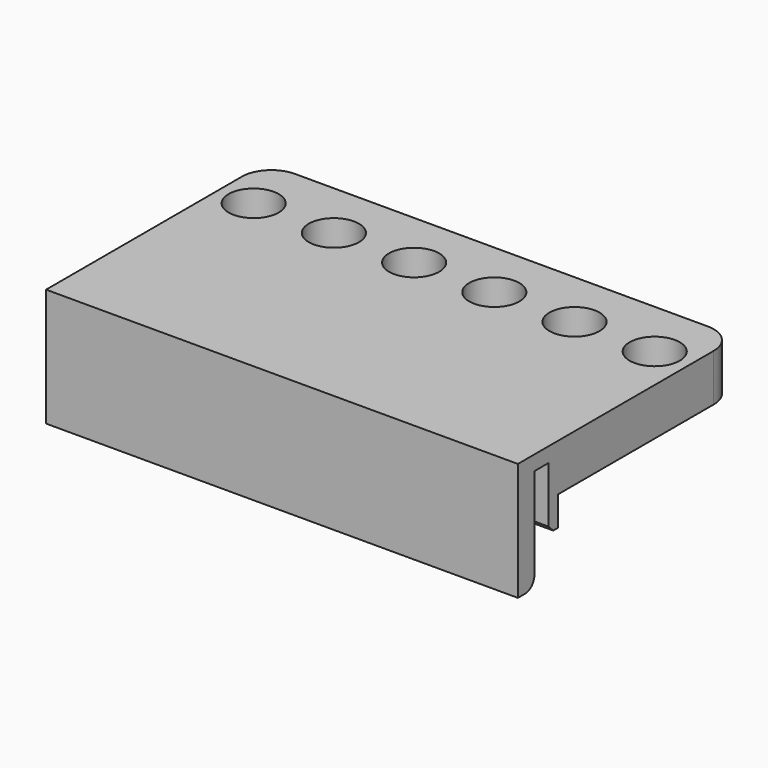
from build123d import *

# Parameters (mm, degrees)
F0_W     = 80
F0_H     = 40
F1_DEPTH = 8
F0_H_2   = 3
F2_DEPTH = 2.5
F0_H_3   = 3.5
F3_DEPTH = 20
F5_D     = 8.5
F6_R     = 2
F7_R     = 5
F8_W     = 80
F8_H     = 2
F9_DEPTH = 5
F10_SIZE = 1


with BuildPart() as f1:
    # F0 (on Top) → F1 (new body)
    with BuildSketch(Plane.XY):
        Rectangle(F0_W, F0_H)
    extrude(amount=-F1_DEPTH)

    # F0 (on Top) → F2 (join)
    with BuildSketch(Plane.XY):
        with Locations((0, -21.5)):
            Rectangle(F0_W, F0_H_2)
    extrude(amount=-F2_DEPTH)

    # F0 (on Top) → F3 (join)
    with BuildSketch(Plane.XY):
        with Locations((0, -24.75)):
            Rectangle(F0_W, F0_H_3)
    extrude(amount=-F3_DEPTH)

    # F5 (through all)
    with Locations(Plane.XY):
        with Locations((-34, 10), (34, 10), (6.8, 10), (20.4, 10), (-20.4, 10), (-6.8, 10)):
            Hole(F5_D / 2)

    # F6
    f6_edges = [f1.edges().sort_by_distance(p)[0] for p in [
        (0, -23, -20),
    ]]
    fillet(f6_edges, radius=F6_R)

    # F7
    f7_edges = [f1.edges().sort_by_distance(p)[0] for p in [
        (40, 20, -4),
        (-40, 20, -4),
    ]]
    fillet(f7_edges, radius=F7_R)

    # F8 (on face) → F9 (join)
    with BuildSketch(Plane(origin=(0, 0, -8), x_dir=(1, 0, 0), z_dir=(0, 0, -1))):
        with Locations((0, 19)):
            Rectangle(F8_W, F8_H)
    extrude(amount=F9_DEPTH)

    # F10
    f10_edges = [f1.edges().sort_by_distance(p)[0] for p in [
        (0, -20, -13),
    ]]
    chamfer(f10_edges, length=F10_SIZE)


solid = f1.part
